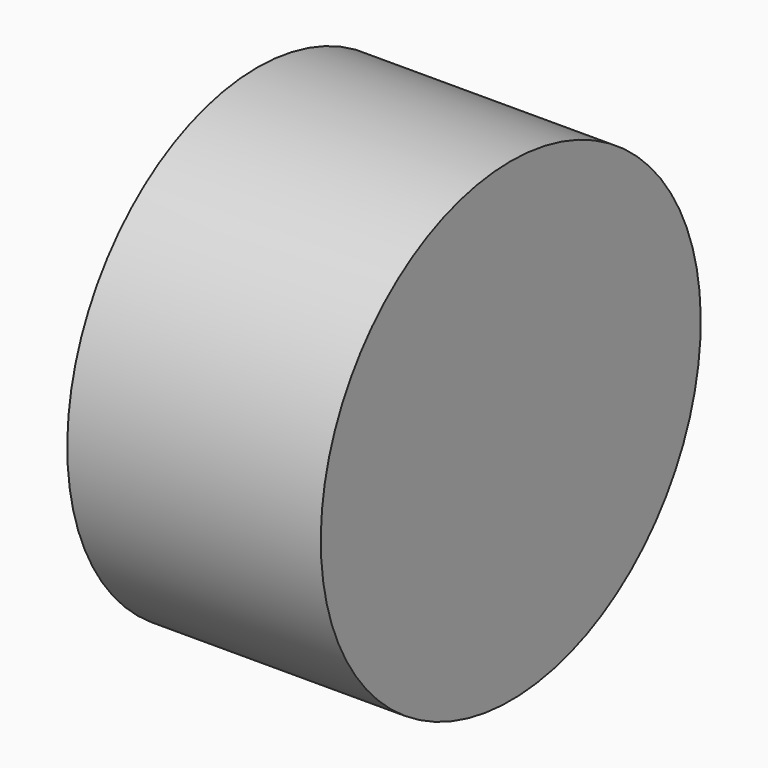
from build123d import *

# Parameters (mm, degrees)
F0_W = 60
F0_H = 56.1978332698


with BuildPart() as f1:
    # F0 (on Front) → F1 (revolve)
    with BuildSketch(Plane.XZ):
        with Locations((-30, 28.0989166349)):
            Rectangle(F0_W, F0_H)
        with BuildLine():
            Line((-54.6992197633, 31.6206477582), (-54.6992197633, 51.1978332698))
            Line((-54.6992197633, 51.1978332698), (-15.4356732965, 51.1978332698))
            Line((-15.4356732965, 51.1978332698), (-15.4356732965, 31.6206477582))
            Line((-15.4356732965, 31.6206477582), (-23.6533980529, 31.6206477582))
            ThreePointArc((-23.6533980529, 31.6206477582), (-35.0674465299, 20.2065992813), (-46.4814950068, 31.6206477582))
            Line((-46.4814950068, 31.6206477582), (-54.6992197633, 31.6206477582))
        make_face(mode=Mode.SUBTRACT)
    revolve(axis=Axis((-30, 0, 0), (-1, 0, 0)))


solid = f1.part
